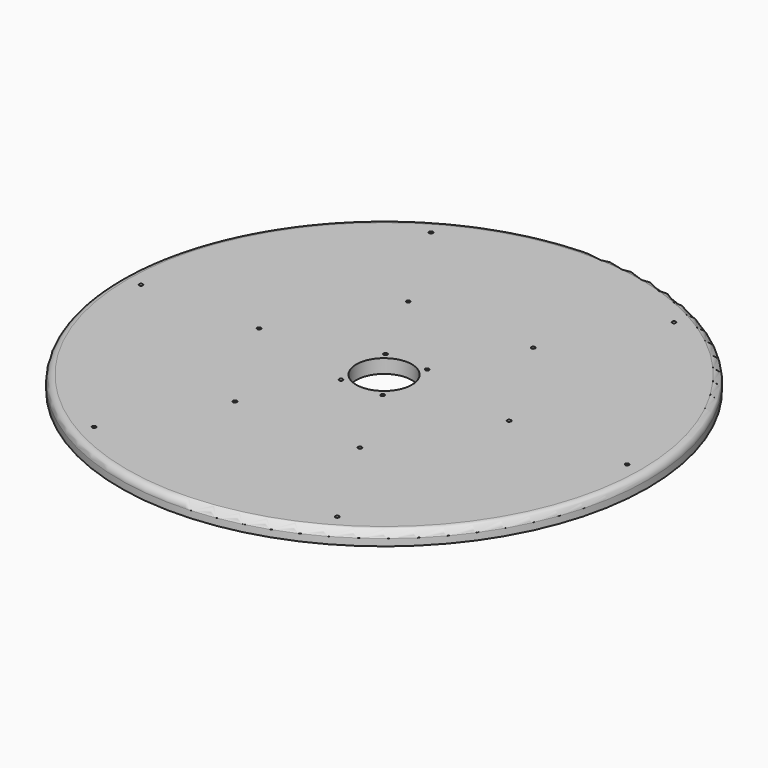
from build123d import *

# Parameters (mm, degrees)
F0_R     = 241.3
F0_R_2   = 1.7272
F0_R_3   = 25.4
F1_DEPTH = 12.7
F2_R     = 1.7272
F3_DEPTH = 12.7
F4_R     = 6.35


with BuildPart() as f1:
    # F0 (on Top) → F1 (new body)
    with BuildSketch(Plane.XY):
        Circle(F0_R)
        with Locations((-111.125, -192.474146)):
            Circle(F0_R_2, mode=Mode.SUBTRACT)
        with Locations((111.125, -192.474146)):
            Circle(F0_R_2, mode=Mode.SUBTRACT)
        with Locations((-222.25, 0)):
            Circle(F0_R_2, mode=Mode.SUBTRACT)
        with Locations((-111.125, 192.474146)):
            Circle(F0_R_2, mode=Mode.SUBTRACT)
        Circle(F0_R_3, mode=Mode.SUBTRACT)
        with Locations((222.25, 0)):
            Circle(F0_R_2, mode=Mode.SUBTRACT)
        with Locations((111.125, 192.474146)):
            Circle(F0_R_2, mode=Mode.SUBTRACT)
    extrude(amount=F1_DEPTH)

    # F2 (on face) → F3 (cut, through all)
    with BuildSketch(Plane.XY.offset(12.7)):
        with Locations((-57.15, 98.986704)):
            Circle(F2_R)
        with Locations((57.15, 98.986704)):
            Circle(F2_R)
        with Locations((-114.3, 0)):
            Circle(F2_R)
        with Locations((-57.15, -98.986704)):
            Circle(F2_R)
        with Locations((57.15, -98.986704)):
            Circle(F2_R)
        with Locations((114.3, 0)):
            Circle(F2_R)
        with Locations((-19.05, -25.4)):
            Circle(F2_R)
        with Locations((19.05, -25.4)):
            Circle(F2_R)
        with Locations((19.05, 25.4)):
            Circle(F2_R)
        with Locations((-19.05, 25.4)):
            Circle(F2_R)
    extrude(amount=-F3_DEPTH, mode=Mode.SUBTRACT)

    # F4
    f4_edges = [f1.edges().sort_by_distance(p)[0] for p in [
        (-241.3, 0, 12.7),
    ]]
    fillet(f4_edges, radius=F4_R)


solid = f1.part
